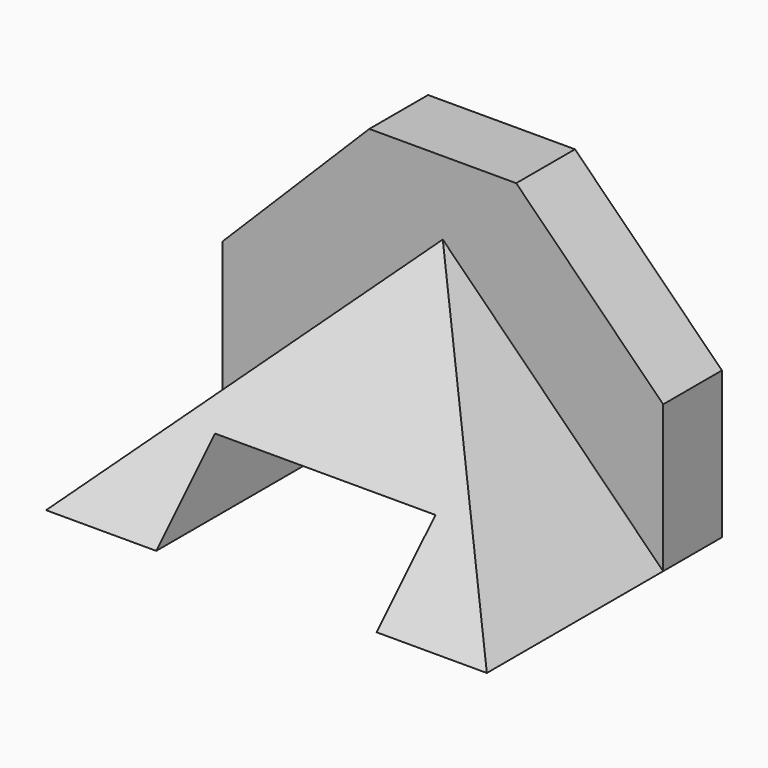
from build123d import *

# Parameters (mm, degrees)
F1_DEPTH = 12.7
F3_DEPTH = 38.1
F4_W     = 38.1
F4_H     = 12.7
F5_DEPTH = 38.1
F7_DEPTH = 76.201


with BuildPart() as f1:
    # F0 (on Front) → F1 (new body)
    with BuildSketch(Plane.XZ):
        Polygon((0, 25.4), (0, 0), (76.2, 0), (76.2, 25.4), (50.8, 50.8), (25.4, 50.8), align=None)
    extrude(amount=-F1_DEPTH)

    # F2 (on Front) → F3 (join)
    with BuildSketch(Plane.XZ):
        Polygon((38.1, 38.1), (0, 0), (76.2, 0), align=None)
    extrude(amount=F3_DEPTH)

    # F4 (on Front) → F5 (cut, through all)
    with BuildSketch(Plane.XZ):
        with Locations((38.1, 6.35)):
            Rectangle(F4_W, F4_H)
    extrude(amount=F5_DEPTH, mode=Mode.SUBTRACT)

    # F6 (on Right) → F7 (cut, through all)
    with BuildSketch(Plane.YZ):
        Polygon((-38.1, 38.1), (-38.1, 0), (0, 38.1), align=None)
    extrude(amount=F7_DEPTH, mode=Mode.SUBTRACT)


solid = f1.part
